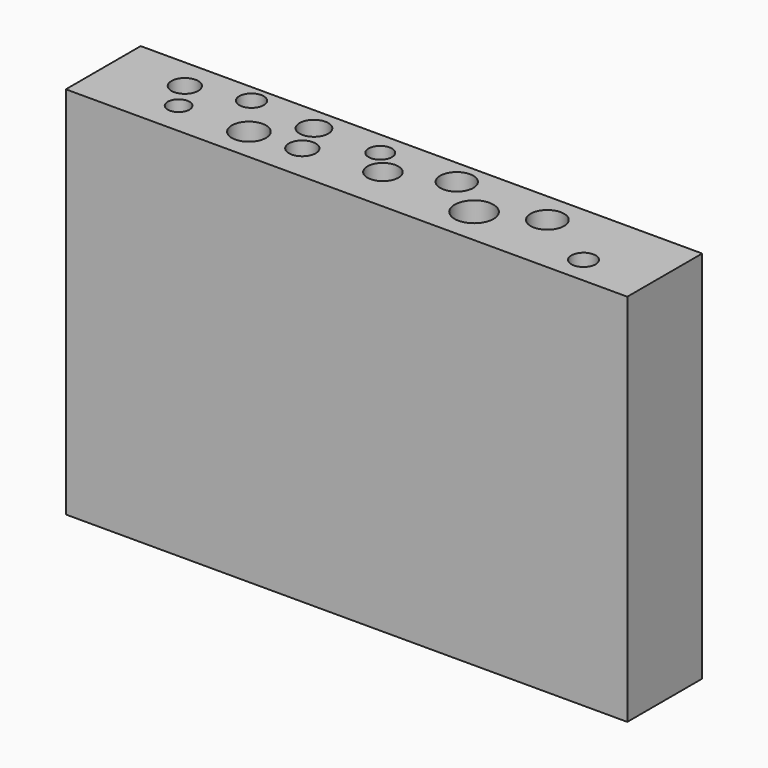
from build123d import *

# Parameters (mm, degrees)
F0_W     = 152.4
F0_H     = 101.6
F1_DEPTH = 25.4
F2_R     = 4.186938
F2_R_2   = 3.636721
F2_R_3   = 4.633923
F2_R_4   = 4.536694
F2_R_5   = 5.264463
F2_R_6   = 3.29364
F2_R_7   = 4.495566
F2_R_8   = 3.902803
F2_R_9   = 3.636718
F2_R_10  = 2.935815
F2_R_11  = 3.316122
F2_R_12  = 3.178844
F3_DEPTH = 152.4


with BuildPart() as f1:
    # F0 (on Front) → F1 (new body)
    with BuildSketch(Plane.XZ):
        Rectangle(F0_W, F0_H)
    extrude(amount=F1_DEPTH)

    # F2 (on face) → F3 (cut)
    with BuildSketch(Plane.XY.offset(50.8)):
        with Locations((0, -13.074628)):
            Circle(F2_R)
        with Locations((-57.468869, -8.440707)):
            Circle(F2_R_2)
        with Locations((-33.754092, -16.345631)):
            Circle(F2_R_3)
        with Locations((40.933821, -8.440707)):
            Circle(F2_R_4)
        with Locations((26.486887, -15.255298)):
            Circle(F2_R_5)
        with Locations((58.379173, -17.981132)):
            Circle(F2_R_6)
        with Locations((15.038378, -6.805205)):
            Circle(F2_R_7)
        with Locations((-23.941083, -6.532621)):
            Circle(F2_R_8)
        with Locations((-20.124912, -15.255298)):
            Circle(F2_R_9)
        with Locations((-52.834947, -16.345631)):
            Circle(F2_R_10)
        with Locations((-42.204186, -4.897119)):
            Circle(F2_R_11)
        with Locations((-5.950564, -6.532621)):
            Circle(F2_R_12)
    extrude(amount=-F3_DEPTH, mode=Mode.SUBTRACT)


solid = f1.part
